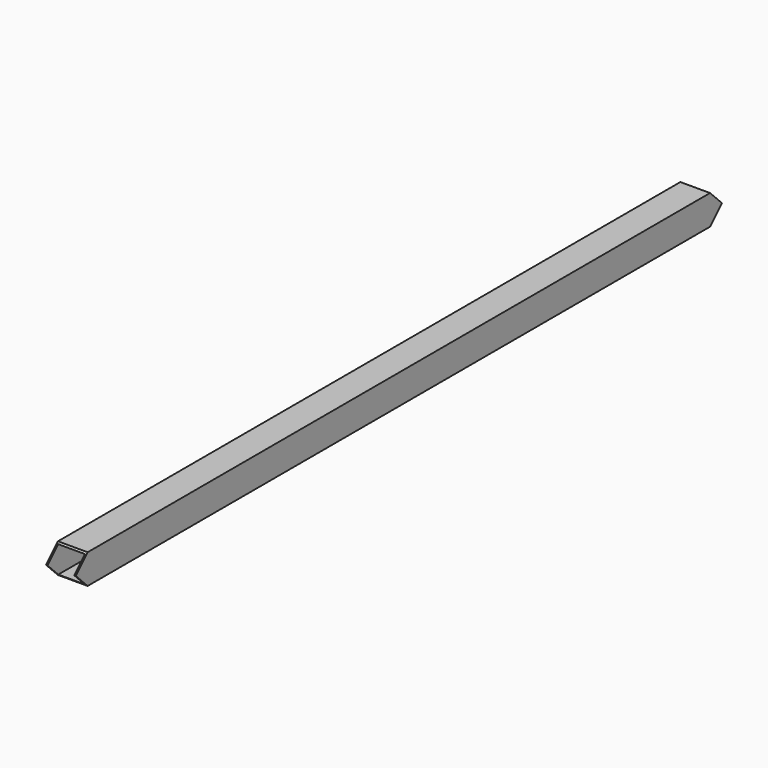
from build123d import *

# Parameters (mm, degrees)
F0_W     = 127
F0_H     = 127
F0_W_2   = 114.3
F0_H_2   = 114.3
F1_DEPTH = 1727.2
F3_DEPTH = 127.001


with BuildPart() as f1:
    # F0 (on Front) → F1 (new body, symmetric)
    with BuildSketch(Plane.XZ):
        Rectangle(F0_W, F0_H)
        Rectangle(F0_W_2, F0_H_2, mode=Mode.SUBTRACT)
    extrude(amount=F1_DEPTH, both=True)

    # F2 (on face) → F3 (cut, through all)
    with BuildSketch(Plane.YZ.offset(63.5)):
        Polygon((1663.7, 63.5), (1727.2, 0), (1727.2, 63.5), align=None)
        Polygon((1727.2, -63.5), (1727.2, 0), (1663.7, -63.5), align=None)
        Polygon((-1727.2, 0), (-1727.2, -63.5), (-1663.7, -63.5), align=None)
        Polygon((-1727.2, 63.5), (-1727.2, 0), (-1663.7, 63.5), align=None)
    extrude(amount=-F3_DEPTH, mode=Mode.SUBTRACT)


solid = f1.part
